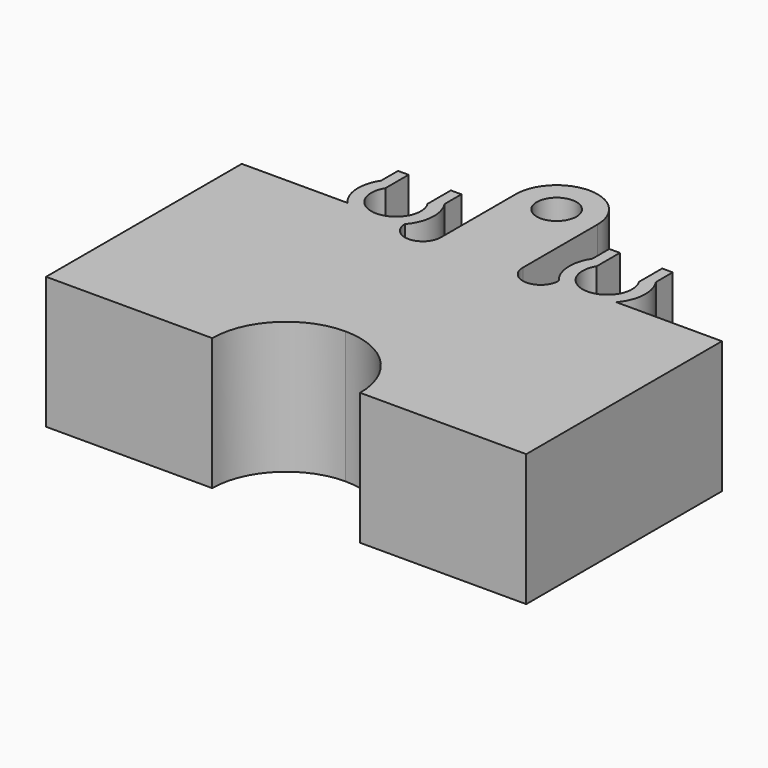
from build123d import *

# Parameters (mm, degrees)
F0_R     = 3.75
F1_DEPTH = 25


with BuildPart() as f1:
    # F0 (on Top) → F1 (new body)
    with BuildSketch(Plane.XY):
        with BuildLine():
            ThreePointArc((-7.75, 22.3), (-11.152254, 18.897746), (-14.554509, 22.3))
            ThreePointArc((-14.554509, 22.3), (-12.821388, 26.540759), (-14, 30.967793))
            Line((-14, 30.967793), (-14, 34.967793))
            Line((-14, 34.967793), (-16, 34.967793))
            Line((-16, 34.967793), (-16, 29.467793))
            ThreePointArc((-16, 29.467793), (-15.895818, 24.709653), (-20, 22.3))
            ThreePointArc((-20, 22.3), (-24.104182, 24.709653), (-24, 29.467793))
            Line((-24, 29.467793), (-24, 34.967793))
            Line((-24, 34.967793), (-26, 34.967793))
            Line((-26, 34.967793), (-26, 30.967793))
            ThreePointArc((-26, 30.967793), (-27.178612, 26.540759), (-25.445491, 22.3))
            Line((-25.445491, 22.3), (-45.445491, 22.3))
            Line((-45.445491, 22.3), (-45.445491, -24))
            Line((-45.445491, -24), (-14, -24))
            ThreePointArc((-14, -24), (-9.899495, -14.100505), (0, -10))
            ThreePointArc((0, -10), (9.899495, -14.100505), (14, -24))
            Line((14, -24), (45.445491, -24))
            Line((45.445491, -24), (45.445491, 22.3))
            Line((45.445491, 22.3), (25.445491, 22.3))
            ThreePointArc((25.445491, 22.3), (27.178612, 26.540759), (26, 30.967793))
            Line((26, 30.967793), (26, 34.967793))
            Line((26, 34.967793), (24, 34.967793))
            Line((24, 34.967793), (24, 29.467793))
            ThreePointArc((24, 29.467793), (24.104182, 24.709653), (20, 22.3))
            ThreePointArc((20, 22.3), (15.895818, 24.709653), (16, 29.467793))
            Line((16, 29.467793), (16, 34.967793))
            Line((16, 34.967793), (14, 34.967793))
            Line((14, 34.967793), (14, 30.967793))
            ThreePointArc((14, 30.967793), (12.821388, 26.540759), (14.554509, 22.3))
            ThreePointArc((14.554509, 22.3), (11.152254, 18.897746), (7.75, 22.3))
            Line((7.75, 22.3), (7.75, 40))
            ThreePointArc((7.75, 40), (5.480078, 45.480078), (0, 47.75))
            ThreePointArc((0, 47.75), (-5.480078, 45.480078), (-7.75, 40))
            Line((-7.75, 40), (-7.75, 22.3))
        make_face()
        with Locations((0, 40)):
            Circle(F0_R, mode=Mode.SUBTRACT)
    extrude(amount=F1_DEPTH)


solid = f1.part
